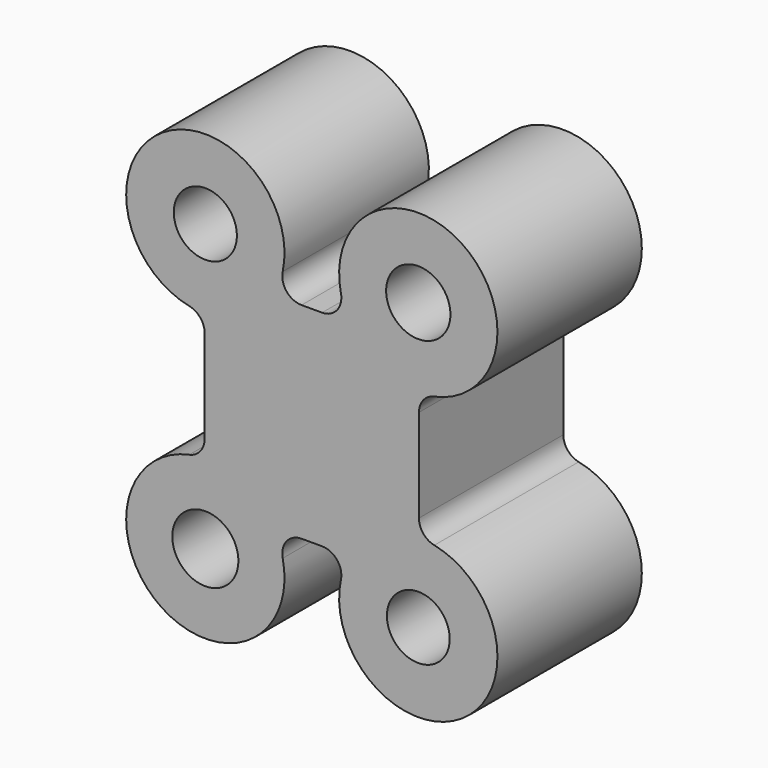
from build123d import *

# Parameters (mm, degrees)
F1_DEPTH = 118.872
F2_R     = 12.7
F5_R     = 20.788829
F5_R_2   = 21.17652
F5_R_3   = 20.68959
F5_R_4   = 21.770913
F6_DEPTH = 71.628


with BuildPart() as f1:
    # F0 (on Front) → F1 (new body)
    with BuildSketch(Plane.XZ):
        with BuildLine():
            Line((-48.653666, 52.151624), (-119.223386, 52.151624))
            Line((-119.223386, 52.151624), (-119.223386, -15.579229))
            Line((-119.223386, -15.579229), (-94.042334, -15.579229))
            ThreePointArc((-94.042334, -15.579229), (-23.388954, -87.372558), (-48.653666, 10.135782))
            Line((-48.653666, 10.135782), (-48.653666, 52.151624))
        make_face()
    extrude(amount=F1_DEPTH)

    # F2
    f2_edges = [f1.edges().sort_by_distance(p)[0] for p in [
        (-94.042334, -59.436, -15.579229),
        (-48.653666, -59.436, 10.135782),
    ]]
    fillet(f2_edges, radius=F2_R)

    # F3: F1 across face


with BuildPart() as f1_1:
    add(f1.part)
    add(f1.part.mirror(Plane(origin=(-119.223386, -59.436, 18.286197), x_dir=(0, -1, 0), z_dir=(-1, 0, 0))))

    # F4: F1 across face


with BuildPart() as f1_2:
    add(f1_1.part)
    add(f1_1.part.mirror(Plane(origin=(-119.223386, -59.436, 52.151624), x_dir=(1, 0, 0), z_dir=(0, 0, 1))))

    # F5 (on face) → F6 (cut)
    with BuildSketch(Plane.XZ.offset(118.872)):
        with Locations((-189.354789, 146.308288)):
            Circle(F5_R)
        with Locations((-49.091984, 146.308288)):
            Circle(F5_R_2)
        with Locations((-49.091984, -42.00504)):
            Circle(F5_R_3)
        with Locations((-189.354789, -42.00504)):
            Circle(F5_R_4)
    extrude(amount=-F6_DEPTH, mode=Mode.SUBTRACT)


solid = f1_2.part
